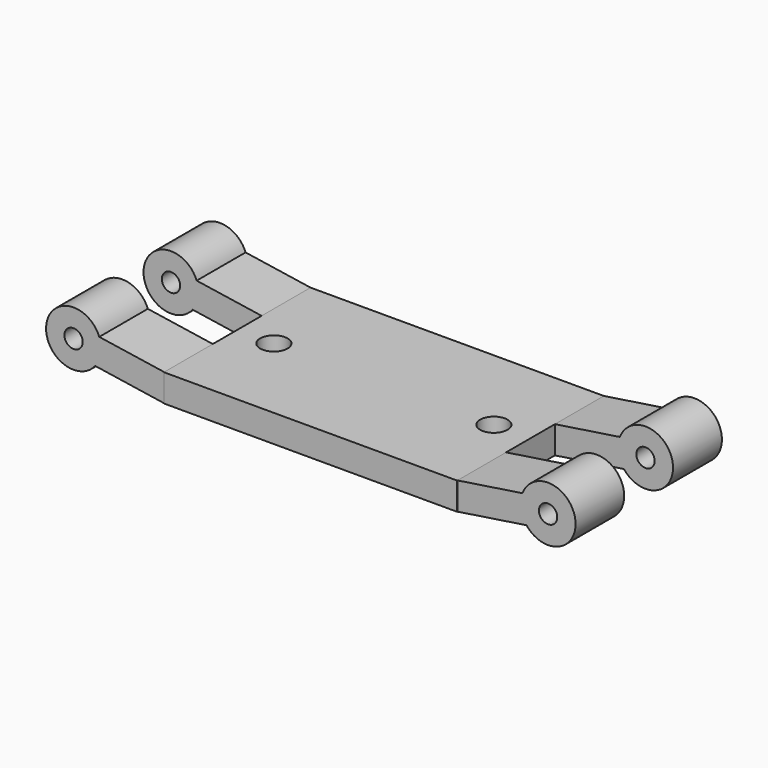
from build123d import *

# Parameters (mm, degrees)
F0_W          = 40.64
F0_H          = 3.81
F1_DEPTH      = 12.7
F2_DEPTH      = 12.6492
F2_DEPTH_BACK = 12.7
F3_D          = 2.54
F3_DEPTH      = 12.701
F4_D          = 2.54
F6_DEPTH      = 4.2291
F7_DEPTH      = 4.2291
F8_D          = 3.81


with BuildPart() as f1:
    # F0 (on Front) → F1 (new body, symmetric)
    with BuildSketch(Plane.XZ):
        Rectangle(F0_W, F0_H)
    extrude(amount=F1_DEPTH, both=True)

    # F0 (on Front) → F2 (join, two sides)
    with BuildSketch(Plane.XZ) as f2_sk:
        with BuildLine():
            Line((20.32, 1.905), (20.32, -1.905))
            Line((20.32, -1.905), (29.8843930952, -0.4539235519))
            ThreePointArc((29.8843930952, -0.4539235519), (29.1094185103, 1.3335), (29.3193590481, 3.2703514481))
            Line((29.3193590481, 3.2703514481), (20.32, 1.905))
        make_face()
        with BuildLine():
            Line((32.8763121576, 0), (29.8843930952, -0.4539235519))
            ThreePointArc((29.8843930952, -0.4539235519), (34.1246887779, -1.6946744039), (36.6863121576, 1.905))
            ThreePointArc((36.6863121576, 1.905), (33.5706134801, 5.6512041687), (29.3193590481, 3.2703514481))
            Line((29.3193590481, 3.2703514481), (32.8763121576, 3.81))
            Line((32.8763121576, 3.81), (32.8763121576, 0))
        make_face()
        with BuildLine():
            ThreePointArc((29.3193590481, 3.2703514481), (29.1094185103, 1.3335), (29.8843930952, -0.4539235519))
            Line((29.8843930952, -0.4539235519), (32.8763121576, 0))
            Line((32.8763121576, 0), (32.8763121576, 3.81))
            Line((32.8763121576, 3.81), (29.3193590481, 3.2703514481))
        make_face()
        with BuildLine():
            Line((-29.8843930952, -0.4539235519), (-20.32, -1.905))
            Line((-20.32, -1.905), (-20.32, 1.905))
            Line((-20.32, 1.905), (-29.3193590481, 3.2703514481))
            ThreePointArc((-29.3193590481, 3.2703514481), (-29.1301079889, 2.5993013225), (-29.0663121576, 1.905))
            ThreePointArc((-29.0663121576, 1.905), (-29.2766377538, 0.6566233797), (-29.8843930952, -0.4539235519))
        make_face()
        with BuildLine():
            ThreePointArc((-29.3193590481, 3.2703514481), (-36.6432058049, 2.4765), (-29.8843930952, -0.4539235519))
            Line((-29.8843930952, -0.4539235519), (-32.8763121576, 0))
            Line((-32.8763121576, 0), (-32.8763121576, 3.81))
            Line((-32.8763121576, 3.81), (-29.3193590481, 3.2703514481))
        make_face()
        with BuildLine():
            Line((-32.8763121576, 0), (-29.8843930952, -0.4539235519))
            ThreePointArc((-29.8843930952, -0.4539235519), (-29.2766377538, 0.6566233797), (-29.0663121576, 1.905))
            ThreePointArc((-29.0663121576, 1.905), (-29.1301079889, 2.5993013225), (-29.3193590481, 3.2703514481))
            Line((-29.3193590481, 3.2703514481), (-32.8763121576, 3.81))
            Line((-32.8763121576, 3.81), (-32.8763121576, 0))
        make_face()
    extrude(amount=F2_DEPTH)
    extrude(f2_sk.sketch, amount=-F2_DEPTH_BACK)

    # F3 (through all, one way)
    with BuildSketch(Plane.XZ):
        with Locations((32.8763121576, 1.905), (-32.8763121576, 1.905)):
            Circle(F3_D / 2)
    extrude(amount=-F3_DEPTH, mode=Mode.SUBTRACT)

    # F4 (through all)
    with Locations(Plane(origin=(0, 0, 0), x_dir=(1, 0, 0), z_dir=(0, 1, 0))):
        with Locations((32.8763121576, -1.905), (-32.8763121576, -1.905)):
            Hole(F4_D / 2)

    # F0 (on Front) → F6 (cut, symmetric)
    with BuildSketch(Plane.XZ):
        with BuildLine():
            Line((20.32, 1.905), (20.32, -1.905))
            Line((20.32, -1.905), (29.8843930952, -0.4539235519))
            ThreePointArc((29.8843930952, -0.4539235519), (29.1094185103, 1.3335), (29.3193590481, 3.2703514481))
            Line((29.3193590481, 3.2703514481), (20.32, 1.905))
        make_face()
        with BuildLine():
            Line((32.8763121576, 0), (29.8843930952, -0.4539235519))
            ThreePointArc((29.8843930952, -0.4539235519), (34.1246887779, -1.6946744039), (36.6863121576, 1.905))
            ThreePointArc((36.6863121576, 1.905), (33.5706134801, 5.6512041687), (29.3193590481, 3.2703514481))
            Line((29.3193590481, 3.2703514481), (32.8763121576, 3.81))
            Line((32.8763121576, 3.81), (32.8763121576, 0))
        make_face()
        with BuildLine():
            ThreePointArc((29.3193590481, 3.2703514481), (29.1094185103, 1.3335), (29.8843930952, -0.4539235519))
            Line((29.8843930952, -0.4539235519), (32.8763121576, 0))
            Line((32.8763121576, 0), (32.8763121576, 3.81))
            Line((32.8763121576, 3.81), (29.3193590481, 3.2703514481))
        make_face()
    extrude(amount=F6_DEPTH, both=True, mode=Mode.SUBTRACT)

    # F0 (on Front) → F7 (cut, symmetric)
    with BuildSketch(Plane.XZ):
        with BuildLine():
            Line((-29.8843930952, -0.4539235519), (-20.32, -1.905))
            Line((-20.32, -1.905), (-20.32, 1.905))
            Line((-20.32, 1.905), (-29.3193590481, 3.2703514481))
            ThreePointArc((-29.3193590481, 3.2703514481), (-29.1301079889, 2.5993013225), (-29.0663121576, 1.905))
            ThreePointArc((-29.0663121576, 1.905), (-29.2766377538, 0.6566233797), (-29.8843930952, -0.4539235519))
        make_face()
        with BuildLine():
            Line((-32.8763121576, 0), (-29.8843930952, -0.4539235519))
            ThreePointArc((-29.8843930952, -0.4539235519), (-29.2766377538, 0.6566233797), (-29.0663121576, 1.905))
            ThreePointArc((-29.0663121576, 1.905), (-29.1301079889, 2.5993013225), (-29.3193590481, 3.2703514481))
            Line((-29.3193590481, 3.2703514481), (-32.8763121576, 3.81))
            Line((-32.8763121576, 3.81), (-32.8763121576, 0))
        make_face()
        with BuildLine():
            ThreePointArc((-29.3193590481, 3.2703514481), (-36.6432058049, 2.4765), (-29.8843930952, -0.4539235519))
            Line((-29.8843930952, -0.4539235519), (-32.8763121576, 0))
            Line((-32.8763121576, 0), (-32.8763121576, 3.81))
            Line((-32.8763121576, 3.81), (-29.3193590481, 3.2703514481))
        make_face()
    extrude(amount=F7_DEPTH, both=True, mode=Mode.SUBTRACT)

    # F8 (through all)
    with Locations(Plane.XY.offset(1.905)):
        with Locations((-15.24, 0), (15.24, 0)):
            Hole(F8_D / 2)


solid = f1.part
